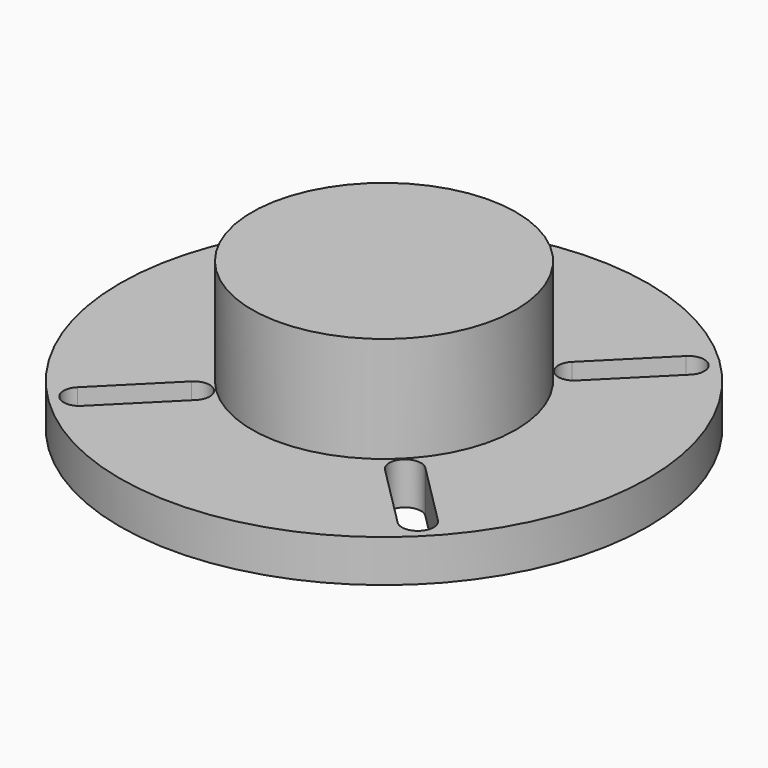
from build123d import *

# Parameters (mm, degrees)
SKETCH076_R           = 12.5
PAD031_DEPTH          = 10
SKETCH077_R           = 25
PAD032_DEPTH          = 4
POCKET030_DEPTH       = 5
POLARPATTERN005_COUNT = 4


with BuildPart() as part:
    # Sketch076 → Pad031 (new body)
    with BuildSketch(Plane.XY):
        Circle(SKETCH076_R)
    extrude(amount=PAD031_DEPTH)

    # Sketch077 (on Face2 of Pad031) → Pad032 (join)
    with BuildSketch(Plane(origin=(0, 0, 0), x_dir=(1, 0, 0), z_dir=(0, 0, -1))):
        Circle(SKETCH077_R)
    extrude(amount=PAD032_DEPTH)

    # Sketch078 (on Face2 of Pad032) → Pocket030 (cut)
    with BuildSketch(Plane.XY):
        with BuildLine():
            ThreePointArc((-14.949749, 17.071067), (-17.071069, 17.071067), (-17.071069, 14.949746))
            Line((-17.071069, 14.949746), (-11.06066, 8.93934))
            ThreePointArc((-11.06066, 8.93934), (-8.93934, 8.93934), (-8.93934, 11.06066))
            Line((-14.949749, 17.071067), (-8.93934, 11.06066))
        make_face()
    pocket030 = extrude(amount=-POCKET030_DEPTH, mode=Mode.SUBTRACT)

    # PolarPattern005: Pocket030 ×4 about axis
    polarpattern005_axis = Axis((0, 0, 0), (0, 0, 1))
    for i in range(1, POLARPATTERN005_COUNT):
        add(pocket030.rotate(polarpattern005_axis, i * 360 / POLARPATTERN005_COUNT), mode=Mode.SUBTRACT)


with BuildPart() as part_1:
    # Body006 placement: moved
    add(part.part.moved(Location((260, 0, 53))))


solid = part_1.part
